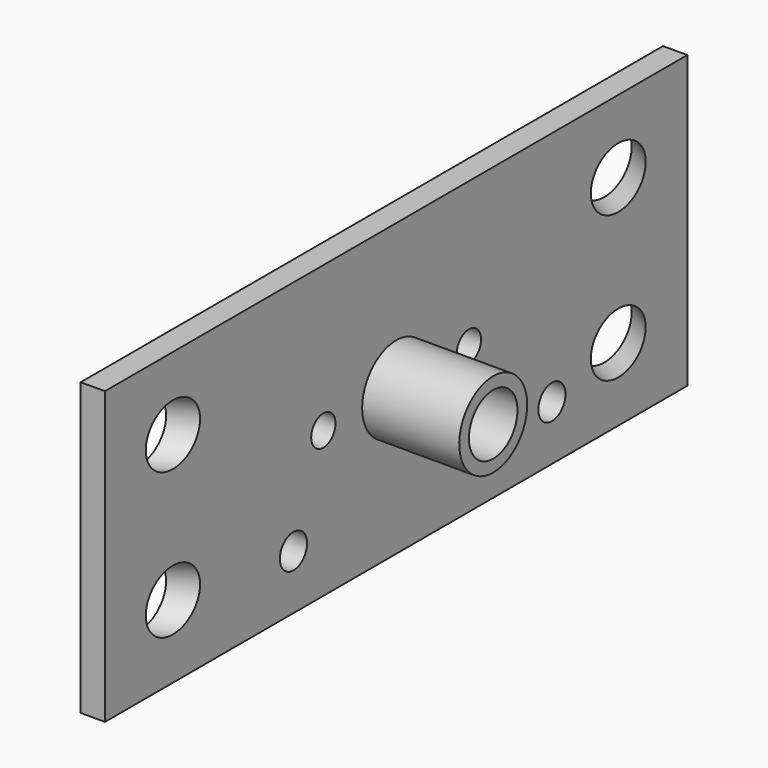
from build123d import *

# Parameters (mm, degrees)
CYLINDER004_R               = 2.5
CYLINDER004_DEPTH           = 12
CYLINDER004_PITCH_ANGLE     = 90
CYLINDER003_R               = 3.5
CYLINDER003_DEPTH           = 10
CYLINDER003_PITCH_ANGLE     = 90
CYLINDER009_R               = 1.4
CYLINDER009_DEPTH           = 10
CYLINDER009_PITCH_ANGLE     = 90
CYLINDER008_R               = 1.4
CYLINDER008_DEPTH           = 10
CYLINDER008_PITCH_ANGLE     = 90
CYLINDER001_R               = 1.25
CYLINDER001_DEPTH           = 10
CYLINDER001_PITCH_ANGLE     = 90
CYLINDER002_R               = 1.25
CYLINDER002_DEPTH           = 10
CYLINDER002_PITCH_ANGLE     = 90
CYLINDER007_R               = 2.5
CYLINDER007_DEPTH           = 10
CYLINDER007_ROLL_ANGLE      = 90
CYLINDER007_PITCH_ANGLE     = 62.121453
CYLINDER007_PLACEMENT_ANGLE = 62.121453
CYLINDER006_R               = 2.5
CYLINDER006_DEPTH           = 10
CYLINDER006_ROLL_ANGLE      = 90
CYLINDER006_PITCH_ANGLE     = 62.121448
CYLINDER006_PLACEMENT_ANGLE = 62.121448
CYLINDER_R                  = 2.5
CYLINDER_DEPTH              = 10
CYLINDER_ROLL_ANGLE         = -90
CYLINDER_PITCH_ANGLE        = 63.434923
CYLINDER_PLACEMENT_ANGLE    = -63.434923
CYLINDER005_R               = 2.5
CYLINDER005_DEPTH           = 10
CYLINDER005_ROLL_ANGLE      = -90
CYLINDER005_PITCH_ANGLE     = 63.434923
CYLINDER005_PLACEMENT_ANGLE = -63.434923
BOX_W                       = 2
BOX_H                       = 60
BOX_DEPTH                   = 24


with BuildPart() as zylinder004:
    # Cylinder004 → Cylinder004 (new body)
    with BuildSketch(Plane.XY):
        Circle(CYLINDER004_R)
    extrude(amount=CYLINDER004_DEPTH)


with BuildPart() as zylinder004_1:
    # Cylinder004 pitch: moved
    add(zylinder004.part.rotate(Axis((0, 0, 0), (0, 1, 0)), CYLINDER004_PITCH_ANGLE))


with BuildPart() as zylinder004_2:
    # Cylinder004 placement: moved
    add(zylinder004_1.part.moved(Location((0, 30, 12))))


with BuildPart() as cut006:
    # Cylinder003 → Cylinder003 (new body)
    with BuildSketch(Plane.XY):
        Circle(CYLINDER003_R)
    extrude(amount=CYLINDER003_DEPTH)


with BuildPart() as cut006_1:
    # Cylinder003 pitch: moved
    add(cut006.part.rotate(Axis((0, 0, 0), (0, 1, 0)), CYLINDER003_PITCH_ANGLE))


with BuildPart() as cut006_2:
    # Cylinder003 placement: moved
    add(cut006_1.part.moved(Location((0, 30, 12))))

    # Cut006: cut Zylinder004
    add(zylinder004_2.part, mode=Mode.SUBTRACT)


with BuildPart() as zylinder009:
    # Cylinder009 → Cylinder009 (new body)
    with BuildSketch(Plane.XY):
        Circle(CYLINDER009_R)
    extrude(amount=CYLINDER009_DEPTH)


with BuildPart() as zylinder009_1:
    # Cylinder009 pitch: moved
    add(zylinder009.part.rotate(Axis((0, 0, 0), (0, 1, 0)), CYLINDER009_PITCH_ANGLE))


with BuildPart() as zylinder009_2:
    # Cylinder009 placement: moved
    add(zylinder009_1.part.moved(Location((-1, 46.05, 4.5))))


with BuildPart() as zylinder008:
    # Cylinder008 → Cylinder008 (new body)
    with BuildSketch(Plane.XY):
        Circle(CYLINDER008_R)
    extrude(amount=CYLINDER008_DEPTH)


with BuildPart() as zylinder008_1:
    # Cylinder008 pitch: moved
    add(zylinder008.part.rotate(Axis((0, 0, 0), (0, 1, 0)), CYLINDER008_PITCH_ANGLE))


with BuildPart() as zylinder008_2:
    # Cylinder008 placement: moved
    add(zylinder008_1.part.moved(Location((-1, 19.42, 4.5))))


with BuildPart() as zylinder001:
    # Cylinder001 → Cylinder001 (new body)
    with BuildSketch(Plane.XY):
        Circle(CYLINDER001_R)
    extrude(amount=CYLINDER001_DEPTH)


with BuildPart() as zylinder001_1:
    # Cylinder001 pitch: moved
    add(zylinder001.part.rotate(Axis((0, 0, 0), (0, 1, 0)), CYLINDER001_PITCH_ANGLE))


with BuildPart() as zylinder001_2:
    # Cylinder001 placement: moved
    add(zylinder001_1.part.moved(Location((0, 22.5, 12))))


with BuildPart() as zylinder002:
    # Cylinder002 → Cylinder002 (new body)
    with BuildSketch(Plane.XY):
        Circle(CYLINDER002_R)
    extrude(amount=CYLINDER002_DEPTH)


with BuildPart() as zylinder002_1:
    # Cylinder002 pitch: moved
    add(zylinder002.part.rotate(Axis((0, 0, 0), (0, 1, 0)), CYLINDER002_PITCH_ANGLE))


with BuildPart() as zylinder002_2:
    # Cylinder002 placement: moved
    add(zylinder002_1.part.moved(Location((0, 37.5, 12))))


with BuildPart() as zylinder007:
    # Cylinder007 → Cylinder007 (new body)
    with BuildSketch(Plane.XY):
        Circle(CYLINDER007_R)
    extrude(amount=CYLINDER007_DEPTH)


with BuildPart() as zylinder007_1:
    # Cylinder007 roll: moved
    add(zylinder007.part.rotate(Axis((0, 0, 0), (1, 0, 0)), CYLINDER007_ROLL_ANGLE))


with BuildPart() as zylinder007_2:
    # Cylinder007 pitch: moved
    add(zylinder007_1.part.rotate(Axis((0, 0, 0), (0, 1, 0)), CYLINDER007_PITCH_ANGLE))


with BuildPart() as zylinder007_3:
    # Cylinder007 placement: moved
    add(zylinder007_2.part.moved(Location((-2, 55, 6))).rotate(Axis((-2, 55, 6), (0, 0, 1)), CYLINDER007_PLACEMENT_ANGLE))


with BuildPart() as zylinder006:
    # Cylinder006 → Cylinder006 (new body)
    with BuildSketch(Plane.XY):
        Circle(CYLINDER006_R)
    extrude(amount=CYLINDER006_DEPTH)


with BuildPart() as zylinder006_1:
    # Cylinder006 roll: moved
    add(zylinder006.part.rotate(Axis((0, 0, 0), (1, 0, 0)), CYLINDER006_ROLL_ANGLE))


with BuildPart() as zylinder006_2:
    # Cylinder006 pitch: moved
    add(zylinder006_1.part.rotate(Axis((0, 0, 0), (0, 1, 0)), CYLINDER006_PITCH_ANGLE))


with BuildPart() as zylinder006_3:
    # Cylinder006 placement: moved
    add(zylinder006_2.part.moved(Location((-2, 55, 18))).rotate(Axis((-2, 55, 18), (0, 0, 1)), CYLINDER006_PLACEMENT_ANGLE))


with BuildPart() as zylinder:
    # Cylinder → Cylinder (new body)
    with BuildSketch(Plane.XY):
        Circle(CYLINDER_R)
    extrude(amount=CYLINDER_DEPTH)


with BuildPart() as zylinder_1:
    # Cylinder roll: moved
    add(zylinder.part.rotate(Axis((0, 0, 0), (1, 0, 0)), CYLINDER_ROLL_ANGLE))


with BuildPart() as zylinder_2:
    # Cylinder pitch: moved
    add(zylinder_1.part.rotate(Axis((0, 0, 0), (0, 1, 0)), CYLINDER_PITCH_ANGLE))


with BuildPart() as zylinder_3:
    # Cylinder placement: moved
    add(zylinder_2.part.moved(Location((-2, 5, 6))).rotate(Axis((-2, 5, 6), (0, 0, 1)), CYLINDER_PLACEMENT_ANGLE))


with BuildPart() as zylinder005:
    # Cylinder005 → Cylinder005 (new body)
    with BuildSketch(Plane.XY):
        Circle(CYLINDER005_R)
    extrude(amount=CYLINDER005_DEPTH)


with BuildPart() as zylinder005_1:
    # Cylinder005 roll: moved
    add(zylinder005.part.rotate(Axis((0, 0, 0), (1, 0, 0)), CYLINDER005_ROLL_ANGLE))


with BuildPart() as zylinder005_2:
    # Cylinder005 pitch: moved
    add(zylinder005_1.part.rotate(Axis((0, 0, 0), (0, 1, 0)), CYLINDER005_PITCH_ANGLE))


with BuildPart() as zylinder005_3:
    # Cylinder005 placement: moved
    add(zylinder005_2.part.moved(Location((-2, 5, 18))).rotate(Axis((-2, 5, 18), (0, 0, 1)), CYLINDER005_PLACEMENT_ANGLE))


with BuildPart() as fusion:
    # Box → Box (new body)
    with BuildSketch(Plane.XY):
        with Locations((1, 30)):
            Rectangle(BOX_W, BOX_H)
    extrude(amount=BOX_DEPTH)

    # Cut: cut Zylinder005
    add(zylinder005_3.part, mode=Mode.SUBTRACT)

    # Cut001: cut Zylinder
    add(zylinder_3.part, mode=Mode.SUBTRACT)

    # Cut002: cut Zylinder006
    add(zylinder006_3.part, mode=Mode.SUBTRACT)

    # Cut003: cut Zylinder007
    add(zylinder007_3.part, mode=Mode.SUBTRACT)

    # Cut004: cut Zylinder002
    add(zylinder002_2.part, mode=Mode.SUBTRACT)

    # Cut005: cut Zylinder001
    add(zylinder001_2.part, mode=Mode.SUBTRACT)

    # Cut007: cut Zylinder004
    add(zylinder004_2.part, mode=Mode.SUBTRACT)

    # Cut008: cut Zylinder008
    add(zylinder008_2.part, mode=Mode.SUBTRACT)

    # Cut009: cut Zylinder009
    add(zylinder009_2.part, mode=Mode.SUBTRACT)

    # Fusion: union Cut006
    add(cut006_2.part)


solid = fusion.part
